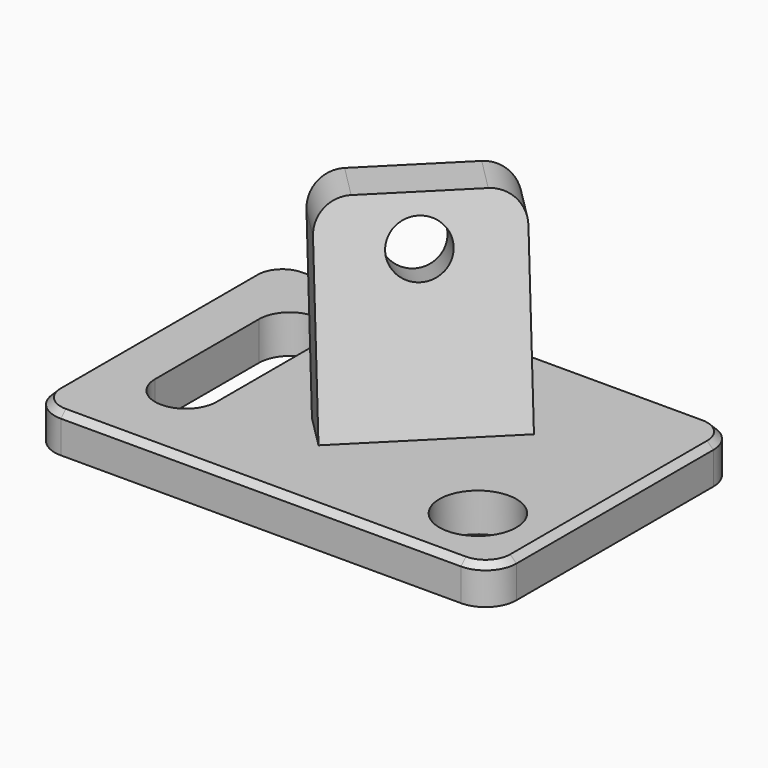
from build123d import *

# Parameters (mm, degrees)
F1_DEPTH = 6.35
F2_R     = 6.35
F3_DEPTH = 25.4
F6_START = 35.56
F6_DEPTH = 27.94
F7_R     = 5.08
F8_R     = 4.445
F9_DEPTH = 25.4
F10_R    = 5.08
F11_SIZE = 1.016


with BuildPart() as f1:
    # F0 (on Top) → F1 (new body)
    with BuildSketch(Plane.XY):
        Polygon((38.1, 25.4), (0, 25.4), (-38.1, 25.4), (-38.1, 0), (-38.1, -25.4), (0, -25.4), (38.1, -25.4), (38.1, 0), align=None)
    extrude(amount=F1_DEPTH)

    # F2 (on face) → F3 (cut)
    with BuildSketch(Plane.XY.offset(6.35)):
        with BuildLine():
            Line((-19.05, 0), (-19.05, 10.7293000911))
            ThreePointArc((-19.05, 10.7293000911), (-24.13, 15.8093000911), (-29.21, 10.7293000911))
            Line((-29.21, 10.7293000911), (-29.21, 0))
            Line((-29.21, 0), (-29.21, -10.7293000911))
            ThreePointArc((-29.21, -10.7293000911), (-24.13, -15.8093000911), (-19.05, -10.7293000911))
            Line((-19.05, -10.7293000911), (-19.05, 0))
        make_face()
        with Locations((26.67, -13.97)):
            Circle(F2_R)
    extrude(amount=-F3_DEPTH, mode=Mode.SUBTRACT)

    # F5 (on face) → F6 (join)
    with BuildSketch(Plane(origin=(-31.75, -31.75, 0), x_dir=(-0.7071067812, 0.7071067812, 0), z_dir=(0.7071067812, 0.7071067812, 0)).offset(F6_START)):
        Polygon((-7.62, 6.35), (0, 6.35), (7.62, 38.4787410273), (0, 38.4787410273), align=None)
    extrude(amount=F6_DEPTH)

    # F7
    f7_edges = [f1.edges().sort_by_distance(p)[0] for p in [
        (-9.29936, -3.911206, 38.478741),
        (10.457204, 15.845357, 38.478741),
    ]]
    fillet(f7_edges, radius=F7_R)

    # F8 (on face) → F9 (cut)
    with BuildSketch(Plane(origin=(6.1094258432, -6.1094258432, 2.0491637233), x_dir=(0.6523063877, 0.7256908563, 0.2187902138), z_dir=(0.6880209162, -0.6880209162, 0.2307692308))):
        with Locations((10.9869780004, 28.0684145883)):
            Circle(F8_R)
    extrude(amount=-F9_DEPTH, mode=Mode.SUBTRACT)

    # F10
    f10_edges = [f1.edges().sort_by_distance(p)[0] for p in [
        (38.1, -25.4, 3.175),
        (38.1, 25.4, 3.175),
        (-38.1, -25.4, 3.175),
        (-38.1, 25.4, 3.175),
    ]]
    fillet(f10_edges, radius=F10_R)

    # F11
    f11_edges = [f1.edges().sort_by_distance(p)[0] for p in [
        (0, -25.4, 6.35),
        (38.1, 0, 6.35),
        (36.612102, -23.912102, 6.35),
        (36.612102, 23.912102, 6.35),
        (0, 25.4, 6.35),
        (-36.612102, 23.912102, 6.35),
        (-38.1, 0, 6.35),
        (-36.612102, -23.912102, 6.35),
    ]]
    chamfer(f11_edges, length=F11_SIZE)


solid = f1.part
